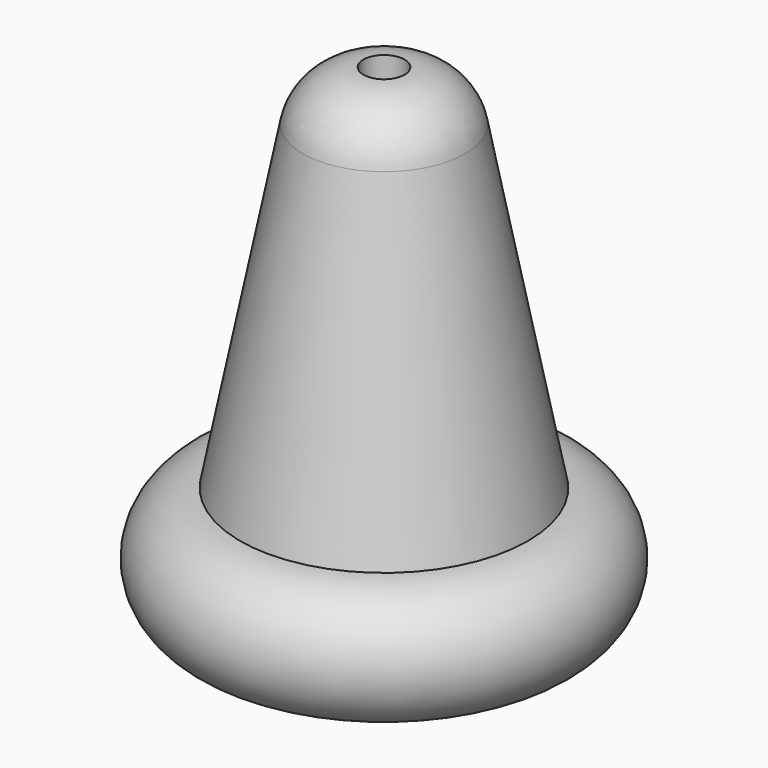
from build123d import *


with BuildPart() as f1:
    # F0 (on Front) → F1 (revolve)
    with BuildSketch(Plane.XZ):
        with BuildLine():
            Line((0.25, 6), (0.25, 0))
            Line((0.25, 0), (1.75, 0))
            ThreePointArc((1.75, 0), (2.5, 0.75), (1.75, 1.5))
            Line((1.75, 1.5), (0.98597, 5.394388))
            ThreePointArc((0.98597, 5.394388), (0.726555, 5.829133), (0.25, 6))
        make_face()
    revolve(axis=Axis((0, 0, 4.403635), (0, 0, 1)))


solid = f1.part
